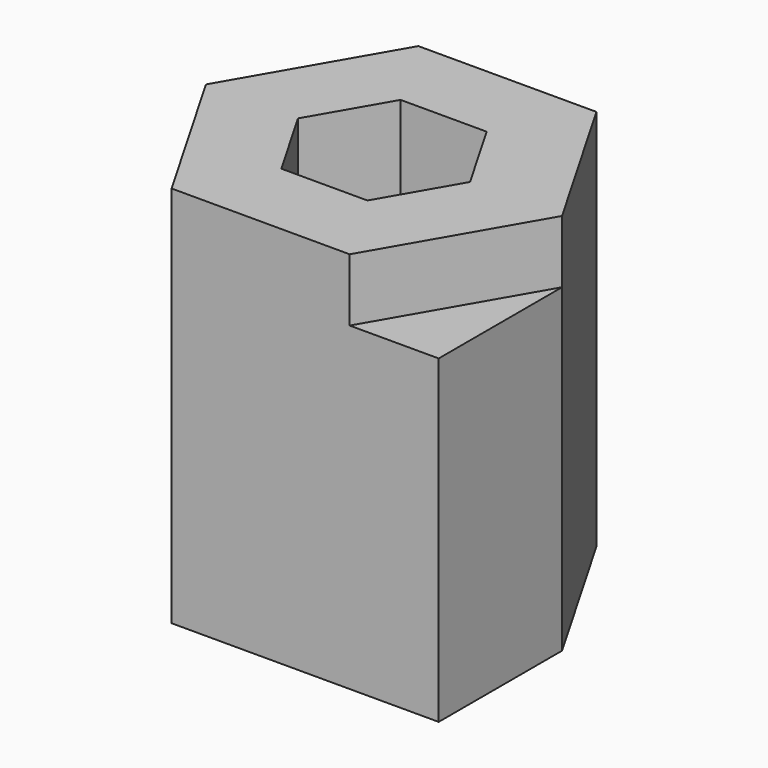
from build123d import *

# Parameters (mm, degrees)
F1_DEPTH = 30.5
F2_DEPTH = 25.5


with BuildPart() as f1:
    # F0 (on Top) → F1 (new body)
    with BuildSketch(Plane.XY):
        Polygon((10.524174, 6.35), (-3.666174, 6.35), (-10.761348, -5.939202), (-3.666174, -18.228404), (10.524174, -18.228404), (17.619348, -5.939202), align=None)
        Polygon((-3.429, -5.939202), (0, 0), (6.858, 0), (10.287, -5.939202), (6.858, -11.878404), (0, -11.878404), align=None, mode=Mode.SUBTRACT)
    extrude(amount=F1_DEPTH)

    # F0 (on Top) → F2 (join)
    with BuildSketch(Plane.XY):
        Polygon((17.619348, -18.228404), (17.619348, -5.939202), (10.524174, -18.228404), align=None)
        Polygon((-10.761348, -5.939202), (-3.666174, 6.35), (-10.761348, 6.35), align=None)
    extrude(amount=F2_DEPTH)


solid = f1.part
